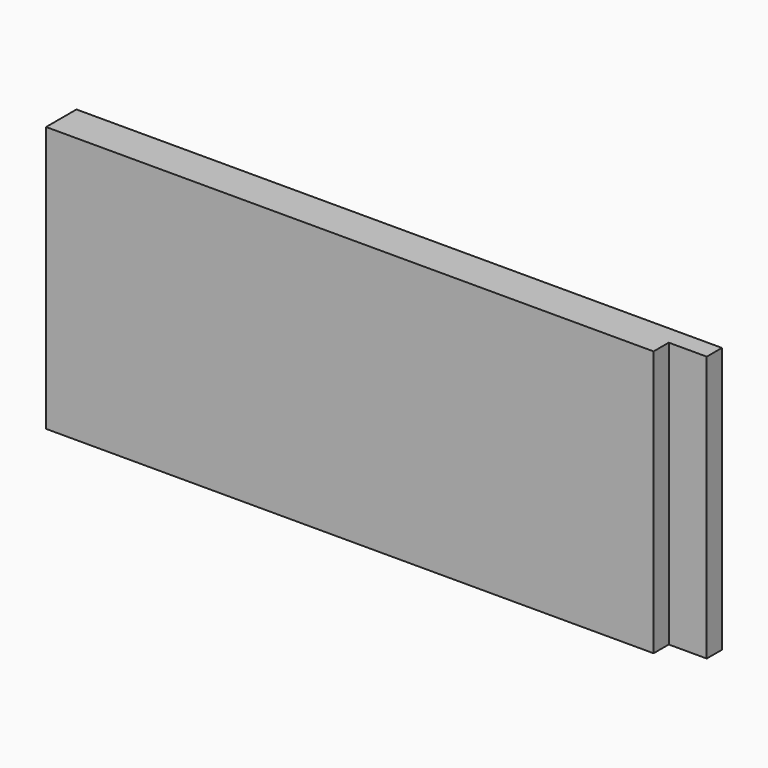
from build123d import *

# Parameters (mm, degrees)
F0_W     = 20
F0_H     = 140
F0_W_2   = 320
F1_DEPTH = 20
F2_W     = 10
F2_H     = 140
F3_DEPTH = 20
F5_DEPTH = 10


with BuildPart() as f1:
    # F0 (on Front) → F1 (new body)
    with BuildSketch(Plane.XZ):
        with Locations((-330, 70)):
            Rectangle(F0_W, F0_H)
        with Locations((-160, 70)):
            Rectangle(F0_W_2, F0_H)
        with Locations((-160, 70)):
            Rectangle(F0_W_2, F0_H)
    extrude(amount=F1_DEPTH)

    # F2 (on face) → F3 (cut)
    with BuildSketch(Plane.YZ):
        with Locations((-15, 70)):
            Rectangle(F2_W, F2_H)
    extrude(amount=-F3_DEPTH, mode=Mode.SUBTRACT)

    # F4 (on face) → F5 (cut)
    with BuildSketch(Plane(origin=(-340, 0, 0), x_dir=(0, -1, 0), z_dir=(-1, 0, 0))):
        with BuildLine():
            ThreePointArc((15, 37.6264154911), (10, 42.6264154911), (5, 37.6264154911))
            Line((5, 37.6264154911), (15, 37.6264154911))
        make_face()
        with BuildLine():
            Line((15, 37.6264154911), (5, 37.6264154911))
            ThreePointArc((5, 37.6264154911), (10, 32.6264154911), (15, 37.6264154911))
        make_face()
        with BuildLine():
            ThreePointArc((15, 107.6264154911), (10, 112.6264154911), (5, 107.6264154911))
            Line((5, 107.6264154911), (15, 107.6264154911))
        make_face()
        with BuildLine():
            Line((15, 107.6264154911), (5, 107.6264154911))
            ThreePointArc((5, 107.6264154911), (10, 102.6264154911), (15, 107.6264154911))
        make_face()
        with BuildLine():
            Line((15, 70), (5, 70))
            ThreePointArc((5, 70), (10, 65), (15, 70))
        make_face()
        with BuildLine():
            ThreePointArc((15, 70), (10, 75), (5, 70))
            Line((5, 70), (15, 70))
        make_face()
    extrude(amount=-F5_DEPTH, mode=Mode.SUBTRACT)


solid = f1.part
